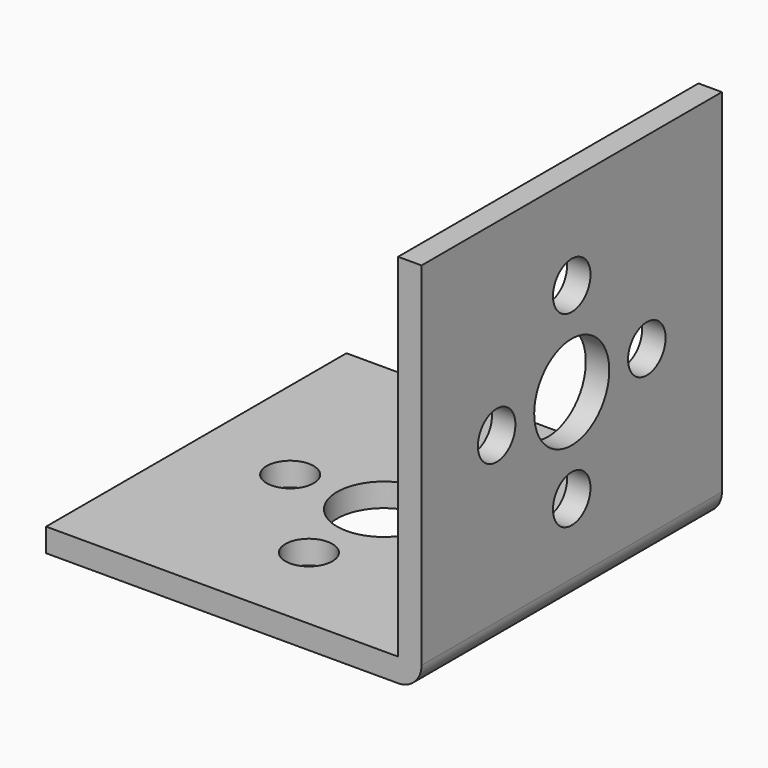
from build123d import *

# Parameters (mm, degrees)
F0_W     = 32
F0_H     = 32
F0_R     = 2
F0_R_2   = 4
F3_DEPTH = 2
F2_W     = 32
F2_H     = 32
F2_R     = 2
F2_R_2   = 4
F4_DEPTH = 2
F5_R     = 2


with BuildPart() as f3:
    # F0 (on Top) → F3 (new body)
    with BuildSketch(Plane.XY):
        Rectangle(F0_W, F0_H)
        with Locations((0, -8)):
            Circle(F0_R, mode=Mode.SUBTRACT)
        with Locations((-8, 0)):
            Circle(F0_R, mode=Mode.SUBTRACT)
        Circle(F0_R_2, mode=Mode.SUBTRACT)
        with Locations((8, 0)):
            Circle(F0_R, mode=Mode.SUBTRACT)
        with Locations((0, 8)):
            Circle(F0_R, mode=Mode.SUBTRACT)
    extrude(amount=F3_DEPTH)

    # F2 (on face) → F4 (join)
    with BuildSketch(Plane(origin=(16, 0, 0), x_dir=(0, -1, 0), z_dir=(-1, 0, 0))):
        with Locations((0, 16)):
            Rectangle(F2_W, F2_H)
        with Locations((0, 8)):
            Circle(F2_R, mode=Mode.SUBTRACT)
        with Locations((-8, 16)):
            Circle(F2_R, mode=Mode.SUBTRACT)
        with Locations((0, 16)):
            Circle(F2_R_2, mode=Mode.SUBTRACT)
        with Locations((8, 16)):
            Circle(F2_R, mode=Mode.SUBTRACT)
        with Locations((0, 24)):
            Circle(F2_R, mode=Mode.SUBTRACT)
    extrude(amount=F4_DEPTH)

    # F5
    f5_edges = [f3.edges().sort_by_distance(p)[0] for p in [
        (16, 0, 0),
    ]]
    fillet(f5_edges, radius=F5_R)


solid = f3.part
